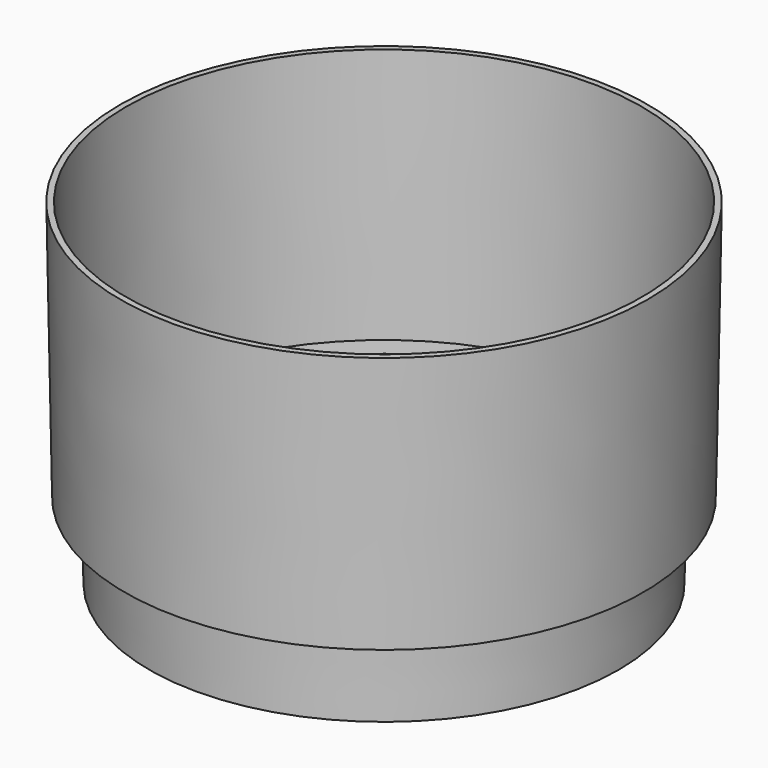
from build123d import *

# Parameters (mm, degrees)
F2_R     = 3.57
F2_R_2   = 6.35
F3_DEPTH = 1.2192


with BuildPart() as f1:
    # F0 (on Front) → F1 (revolve)
    with BuildSketch(Plane.XZ):
        Polygon((0, 0), (0, 1.2192), (-46.311097, 1.2192), (-46.579905, 16.6192), (-51.28, 16.6192), (-52.175331, 67.912703), (-53.385147, 67.891586), (-52.469064, 15.4092), (-47.768969, 15.4092), (-47.5, 0), align=None)
    revolve(axis=Axis((0, 0, 20.760898), (0, 0, 1)))

    # F2 (on face) → F3 (cut, through all)
    with BuildSketch(Plane.XY.offset(1.2192)):
        with Locations((0, 31.5)):
            Circle(F2_R)
        with Locations((0, -31.5)):
            Circle(F2_R)
        with Locations((-28, 0)):
            Circle(F2_R_2)
    extrude(amount=-F3_DEPTH, mode=Mode.SUBTRACT)


solid = f1.part
